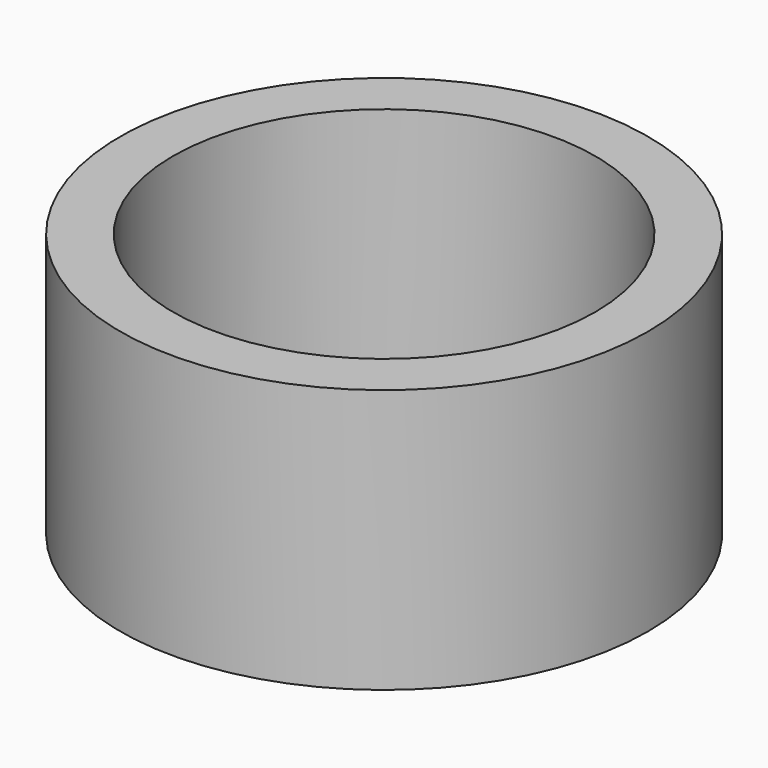
from build123d import *

# Parameters (mm, degrees)
SKETCH_R   = 25.4
SKETCH_R_2 = 20.32
PAD_DEPTH  = 25.4


with BuildPart() as part:
    # Sketch → Pad (new body)
    with BuildSketch(Plane.XY):
        Circle(SKETCH_R)
        Circle(SKETCH_R_2, mode=Mode.SUBTRACT)
    extrude(amount=PAD_DEPTH)


solid = part.part
